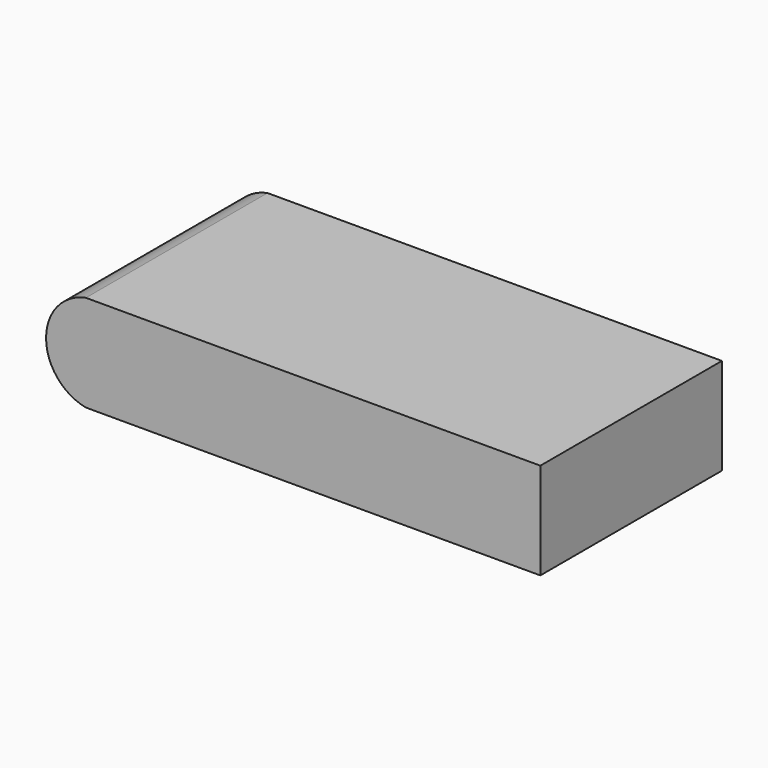
from build123d import *

# Parameters (mm, degrees)
F1_DEPTH = 16.29


with BuildPart() as f1:
    # F0 (on Front) → F1 (new body, symmetric)
    with BuildSketch(Plane.XZ):
        with BuildLine():
            Line((-29.7614019364, -6.935), (35.475, -6.935))
            Line((35.475, -6.935), (35.475, 6.935))
            Line((35.475, 6.935), (-29.7614019364, 6.935))
            ThreePointArc((-29.7614019364, 6.935), (-33.8626270992, 4.4927560537), (-35.475, 0))
            ThreePointArc((-35.475, 0), (-33.8626270992, -4.4927560537), (-29.7614019364, -6.935))
        make_face()
    extrude(amount=F1_DEPTH, both=True)


solid = f1.part
